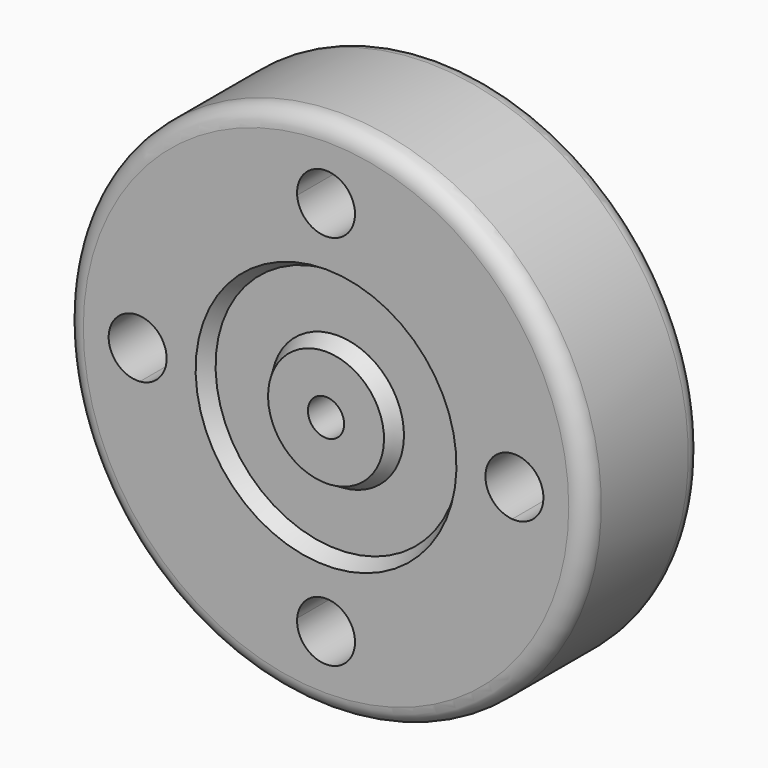
from build123d import *

# Parameters (mm, degrees)
F5_DEPTH      = 25.401
F5_DEPTH_BACK = 25.4


with BuildPart() as f1:
    # F0 (on Right) → F1 (revolve)
    with BuildSketch(Plane.YZ):
        with BuildLine():
            Line((-12.7, 3.175), (12.7, 3.175))
            Line((12.7, 3.175), (12.7, 10.16))
            Line((12.7, 10.16), (10.16, 11.6264696837))
            Line((10.16, 11.6264696837), (10.16, 21.3935303163))
            Line((10.16, 21.3935303163), (12.7, 22.86))
            Line((12.7, 22.86), (12.7, 42.545))
            ThreePointArc((12.7, 42.545), (11.7700640303, 44.7900640303), (9.525, 45.72))
            Line((9.525, 45.72), (-9.525, 45.72))
            ThreePointArc((-9.525, 45.72), (-11.7700640303, 44.7900640303), (-12.7, 42.545))
            Line((-12.7, 42.545), (-12.7, 22.86))
            Line((-12.7, 22.86), (-10.16, 21.3935303163))
            Line((-10.16, 21.3935303163), (-10.16, 11.6264696837))
            Line((-10.16, 11.6264696837), (-12.7, 10.16))
            Line((-12.7, 10.16), (-12.7, 3.175))
        make_face()
    revolve(axis=Axis((0, -22.9387803917, 0), (0, -1, 0)))


with BuildPart() as f2_1:
    # F2: copy of F1
    add(f1.part)

    # F4 (on face) → F5 (cut, two sides)
    with BuildSketch(Plane.XZ.offset(12.7)) as f5_sk:
        with BuildLine():
            ThreePointArc((-5.0649481151, 32.6292307692), (0, 27.94), (5.0649481151, 32.6292307692))
            ThreePointArc((5.0649481151, 32.6292307692), (0, 33.02), (-5.0649481151, 32.6292307692))
        make_face()
        with BuildLine():
            ThreePointArc((-5.0649481151, 32.6292307692), (0, 33.02), (5.0649481151, 32.6292307692))
            ThreePointArc((5.0649481151, 32.6292307692), (5.076235634, 32.8244704939), (5.08, 33.02))
            ThreePointArc((5.08, 33.02), (-0.1955295061, 38.096235634), (-5.0649481151, 32.6292307692))
        make_face()
        with BuildLine():
            ThreePointArc((32.6292307692, -5.0649481151), (32.9221627479, -2.54), (33.02, 0))
            ThreePointArc((33.02, 0), (32.9221627479, 2.54), (32.6292307692, 5.0649481151))
            ThreePointArc((32.6292307692, 5.0649481151), (27.94, 0), (32.6292307692, -5.0649481151))
        make_face()
        with BuildLine():
            ThreePointArc((32.6292307692, 5.0649481151), (32.9221627479, 2.54), (33.02, 0))
            ThreePointArc((33.02, 0), (32.9221627479, -2.54), (32.6292307692, -5.0649481151))
            ThreePointArc((32.6292307692, -5.0649481151), (36.4711804001, -3.7277008794), (38.1, 0))
            ThreePointArc((38.1, 0), (36.4711804001, 3.7277008794), (32.6292307692, 5.0649481151))
        make_face()
        with BuildLine():
            ThreePointArc((-5.0649481151, -32.6292307692), (0, -33.02), (5.0649481151, -32.6292307692))
            ThreePointArc((5.0649481151, -32.6292307692), (0, -27.94), (-5.0649481151, -32.6292307692))
        make_face()
        with BuildLine():
            ThreePointArc((5.08, -33.02), (5.076235634, -32.8244704939), (5.0649481151, -32.6292307692))
            ThreePointArc((5.0649481151, -32.6292307692), (0, -33.02), (-5.0649481151, -32.6292307692))
            ThreePointArc((-5.0649481151, -32.6292307692), (-0.1955295061, -38.096235634), (5.08, -33.02))
        make_face()
        with BuildLine():
            ThreePointArc((-27.94, 0), (-29.2922991206, 3.4511804001), (-32.6292307692, 5.0649481151))
            ThreePointArc((-32.6292307692, 5.0649481151), (-33.02, 0), (-32.6292307692, -5.0649481151))
            ThreePointArc((-32.6292307692, -5.0649481151), (-29.2922991206, -3.4511804001), (-27.94, 0))
        make_face()
        with BuildLine():
            ThreePointArc((-32.6292307692, -5.0649481151), (-33.02, 0), (-32.6292307692, 5.0649481151))
            ThreePointArc((-32.6292307692, 5.0649481151), (-38.1, 0), (-32.6292307692, -5.0649481151))
        make_face()
    extrude(amount=-F5_DEPTH, mode=Mode.SUBTRACT)
    extrude(f5_sk.sketch, amount=F5_DEPTH_BACK, mode=Mode.SUBTRACT)


solid = f2_1.part
